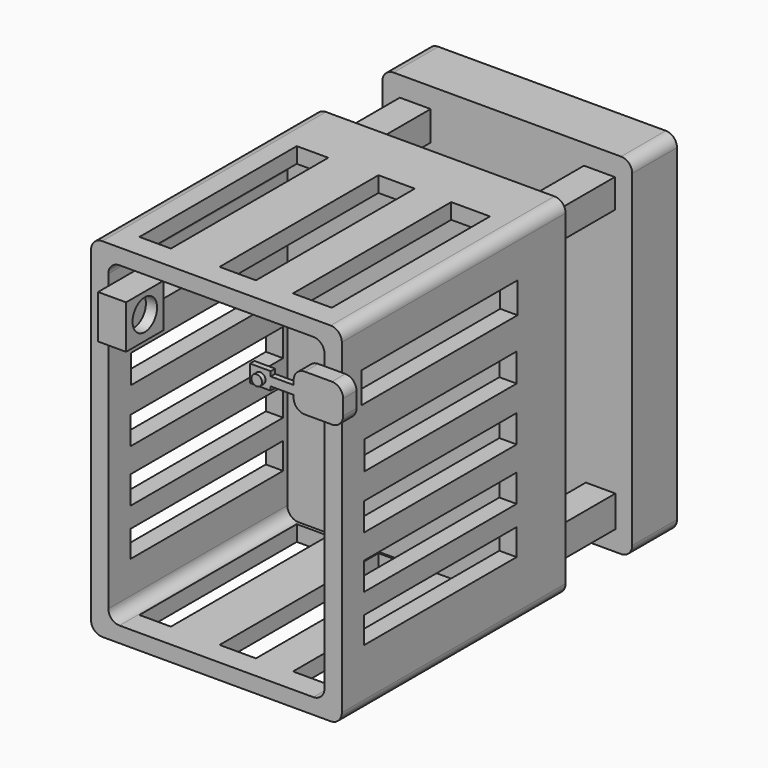
from build123d import *

# Parameters (mm, degrees)
F0_W      = 113.8799723737
F0_H      = 158.2074281148
F1_DEPTH  = 127
F2_W      = 98.160520196
F2_H      = 144.0246999264
F3_DEPTH  = 101.6
F4_W      = 14.300648123
F4_H      = 89.3096532673
F5_DEPTH  = 158.2084281148
F6_W      = 16.5228282567
F6_H      = 90.1571717113
F7_DEPTH  = 158.2084281148
F8_W      = 17.6004189998
F8_H      = 89.7979792207
F9_DEPTH  = 158.2084281148
F10_W     = 88.6119194329
F10_H     = 13.9829851687
F11_DEPTH = 113.8809723737
F12_W     = 86.4148177207
F12_H     = 12.8643419594
F12_W_2   = 86.6944752634
F12_H_2   = 12.5846816227
F12_H_3   = 12.584682554
F12_H_4   = 12.025360018
F13_DEPTH = 113.8809723737
F14_R     = 5.08
F15_W     = 13.9829777181
F15_H     = 13.1440013647
F15_H_2   = 13.4236589074
F15_W_2   = 15.1016153395
F15_W_3   = 13.4236626327
F15_H_3   = 14.2626389861
F16_DEPTH = 38.1
F17_W     = 113.4359836578
F17_H     = 158.8768362999
F18_DEPTH = 25.4
F19_R     = 5.08
F20_W     = 22.4674493074
F20_H     = 17.1314254403
F21_DEPTH = 7.62
F22_R     = 5.08
F23_R     = 1.8874921425
F23_W     = 10.422969237
F23_H     = 3.9357170463
F23_W_2   = 1.3796649873
F24_DEPTH = 2.54
F25_R     = 2.4029253483
F26_DEPTH = 2.032
F27_W     = 21.3028490543
F27_H     = 19.792418927
F28_DEPTH = 12.7
F29_R     = 6.9626979342
F30_DEPTH = 5.08


with BuildPart() as f1:
    # F0 (on Front) → F1 (new body)
    with BuildSketch(Plane.XZ):
        Rectangle(F0_W, F0_H)
    extrude(amount=F1_DEPTH)

    # F2 (on face) → F3 (cut)
    with BuildSketch(Plane.XZ.offset(127)):
        Rectangle(F2_W, F2_H)
    extrude(amount=-F3_DEPTH, mode=Mode.SUBTRACT)

    # F4 (on face) → F5 (cut, through all)
    with BuildSketch(Plane(origin=(0, 0, -79.1037140574), x_dir=(1, 0, 0), z_dir=(0, 0, -1))):
        with Locations((-36.4129859954, 71.6007696465)):
            Rectangle(F4_W, F4_H)
    extrude(amount=-F5_DEPTH, mode=Mode.SUBTRACT)

    # F6 (on face) → F7 (cut, through all)
    with BuildSketch(Plane(origin=(0, 0, -79.1037140574), x_dir=(1, 0, 0), z_dir=(0, 0, -1))):
        with Locations((1.257171738, 71.3765667751)):
            Rectangle(F6_W, F6_H)
    extrude(amount=-F7_DEPTH, mode=Mode.SUBTRACT)

    # F8 (on face) → F9 (cut, through all)
    with BuildSketch(Plane(origin=(0, 0, -79.1037140574), x_dir=(1, 0, 0), z_dir=(0, 0, -1))):
        with Locations((34.8416222259, 71.1969705299)):
            Rectangle(F8_W, F8_H)
    extrude(amount=-F9_DEPTH, mode=Mode.SUBTRACT)

    # F10 (on face) → F11 (cut, through all)
    with BuildSketch(Plane.YZ.offset(56.9399861869)):
        with Locations((-71.5756770223, 51.3175372034)):
            Rectangle(F10_W, F10_H)
    extrude(amount=-F11_DEPTH, mode=Mode.SUBTRACT)

    # F12 (on face) → F13 (cut, through all)
    with BuildSketch(Plane.YZ.offset(56.9399861869)):
        with Locations((-70.9845181555, 23.6312365159)):
            Rectangle(F12_W, F12_H)
        with Locations((-71.1243469268, -0.8389786817)):
            Rectangle(F12_W_2, F12_H_2)
        with Locations((-71.1243469268, -24.6100444347)):
            Rectangle(F12_W_2, F12_H_3)
        with Locations((-71.1243469268, -46.1438354105)):
            Rectangle(F12_W_2, F12_H_4)
    extrude(amount=-F13_DEPTH, mode=Mode.SUBTRACT)

    # F14
    f14_edges = [f1.edges().sort_by_distance(p)[0] for p in [
        (56.939986, -63.5, -79.103714),
        (-56.939986, -63.5, -79.103714),
        (56.939986, -63.5, 79.103714),
        (-56.939986, -63.5, 79.103714),
        (49.08026, -76.2, 72.01235),
        (49.08026, -76.2, -72.01235),
        (-49.08026, -76.2, -72.01235),
        (-49.08026, -76.2, 72.01235),
    ]]
    fillet(f14_edges, radius=F14_R)

    # F15 (on face) → F16 (join)
    with BuildSketch(Plane(origin=(0, 0, 0), x_dir=(-1, 0, 0), z_dir=(0, 1, 0))):
        with Locations((-41.8091099709, 63.7623891234)):
            Rectangle(F15_W, F15_H)
        with Locations((41.8091099709, 63.6225603521)):
            Rectangle(F15_W, F15_H_2)
        with Locations((42.3684287816, -63.7623891234)):
            Rectangle(F15_W_2, F15_H)
        with Locations((-42.3684287816, -63.2030703127)):
            Rectangle(F15_W_3, F15_H_3)
    extrude(amount=F16_DEPTH)

    # F17 (on face) → F18 (join)
    with BuildSketch(Plane(origin=(0, 38.1, 0), x_dir=(-1, 0, 0), z_dir=(0, 1, 0))):
        Rectangle(F17_W, F17_H)
    extrude(amount=F18_DEPTH)

    # F19
    f19_edges = [f1.edges().sort_by_distance(p)[0] for p in [
        (-56.717992, 50.8, -79.438418),
        (56.717992, 50.8, -79.438418),
        (56.717992, 50.8, 79.438418),
        (-56.717992, 50.8, 79.438418),
    ]]
    fillet(f19_edges, radius=F19_R)

    # F20 (on face) → F21 (join)
    with BuildSketch(Plane.XZ.offset(127)):
        with Locations((52.3771941662, 53.3601529896)):
            Rectangle(F20_W, F20_H)
    extrude(amount=F21_DEPTH)

    # F22
    f22_edges = [f1.edges().sort_by_distance(p)[0] for p in [
        (63.610919, -130.81, 61.925866),
        (63.610919, -130.81, 44.79444),
        (41.14347, -130.81, 61.925866),
        (41.14347, -130.81, 44.79444),
    ]]
    fillet(f22_edges, radius=F22_R)

    # F23 (on face) → F24 (join)
    with BuildSketch(Plane.XZ.offset(134.62)):
        Polygon((29.3408352882, 51.0027073324), (29.3408352882, 54.9384243786), (30.7205002755, 54.9384243786), (30.7205002755, 57.0661351085), (21.2954226881, 57.0661351085), (21.2954226881, 49.2784120142), (30.7205002755, 49.2784120142), (30.7205002755, 51.0027073324), align=None)
        with Locations((25.4014916718, 52.5658614933)):
            Circle(F23_R, mode=Mode.SUBTRACT)
        with Locations((35.931984894, 52.9705658555)):
            Rectangle(F23_W, F23_H)
        with Locations((25.4014916718, 52.5658614933)):
            Circle(F23_R)
        with Locations((30.0306677818, 52.9705658555)):
            Rectangle(F23_W_2, F23_H)
    extrude(amount=-F24_DEPTH)

    # F25 (on face) → F26 (join)
    with BuildSketch(Plane.XZ.offset(134.62)):
        with Locations((26.0079614818, 52.7118705213)):
            Circle(F25_R)
    extrude(amount=F26_DEPTH)

    # F27 (on face) → F28 (join)
    with BuildSketch(Plane.YZ.offset(-49.080260098)):
        with Locations((-122.1664994955, 52.132261917)):
            Rectangle(F27_W, F27_H)
    extrude(amount=F28_DEPTH)

    # F29 (on face) → F30 (cut)
    with BuildSketch(Plane.YZ.offset(-36.380260098)):
        with Locations((-122.1664994955, 52.7822077274)):
            Circle(F29_R)
    extrude(amount=-F30_DEPTH, mode=Mode.SUBTRACT)


solid = f1.part
